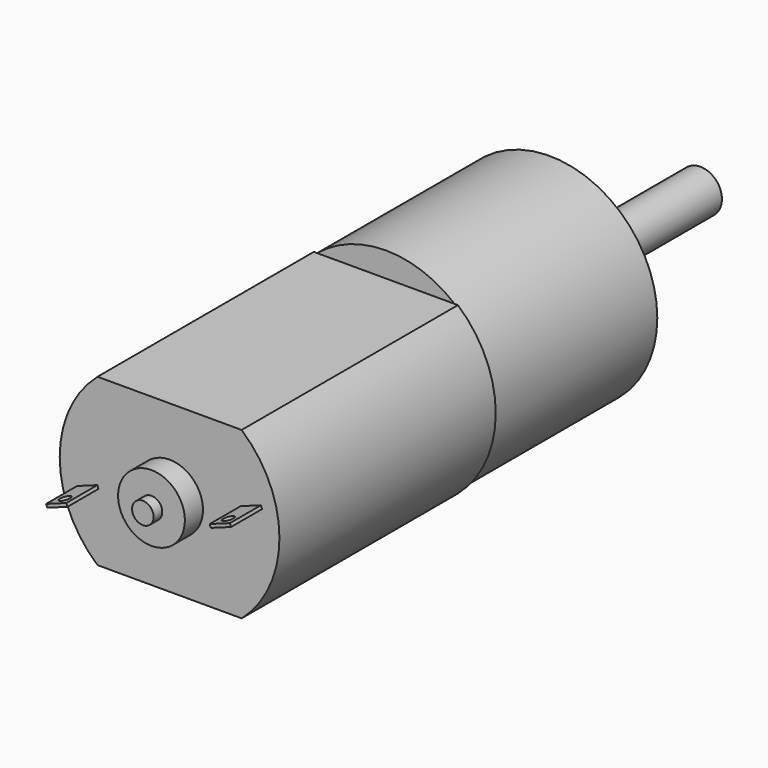
from build123d import *

# Parameters (mm, degrees)
SKETCH_R                 = 10
PAD_DEPTH                = 19
SKETCH001_R              = 3.5
PAD001_DEPTH             = 3
SKETCH002_R              = 2
PAD002_DEPTH             = 14.5
SKETCH003_W              = 10
SKETCH003_H              = 5
POCKET_DEPTH             = 14.5
PAD003_DEPTH             = 25.1
SKETCH005_R              = 3.1
PAD004_DEPTH             = 2.1
SKETCH006_R              = 1
PAD005_DEPTH             = 6
PAD006_DEPTH             = 3.6
SKETCH009_R              = 0.5
POCKET001_DEPTH          = 5
POLARPATTERN_COUNT       = 2
POLARPATTERN001_COUNT    = 2
POLARPATTERN001_FACE35_R = 1
POCKET002_DEPTH          = 5
SKETCH010_R              = 1.25
POCKET003_DEPTH          = 5


with BuildPart() as part:
    # Sketch → Pad (new body)
    with BuildSketch(Plane.XZ):
        Circle(SKETCH_R)
    extrude(amount=PAD_DEPTH)

    # Sketch001 (on Face2 of Pad) → Pad001 (join)
    with BuildSketch(Plane(origin=(0, 0, 0), x_dir=(1, 0, 0), z_dir=(0, 1, 0))):
        Circle(SKETCH001_R)
    extrude(amount=PAD001_DEPTH)

    # Sketch002 (on Face5 of Pad001) → Pad002 (join)
    with BuildSketch(Plane(origin=(0, 3, 0), x_dir=(1, 0, 0), z_dir=(0, 1, 0))):
        Circle(SKETCH002_R)
    extrude(amount=PAD002_DEPTH)

    # Sketch003 (on Face7 of Pad002) → Pocket (cut)
    with BuildSketch(Plane(origin=(0, 17.5, 0), x_dir=(1, 0, 0), z_dir=(0, 1, 0))):
        with Locations((0, 4)):
            Rectangle(SKETCH003_W, SKETCH003_H)
    extrude(amount=-POCKET_DEPTH, mode=Mode.SUBTRACT)

    # Sketch004 (on Face3 of Pocket) → Pad003 (join)
    with BuildSketch(Plane.XZ.offset(19)):
        with BuildLine():
            Line((-6.689544, 7.7), (6.689544, 7.7))
            ThreePointArc((6.689544, -7.7), (10.2, 0), (6.689544, 7.7))
            Line((6.689544, -7.7), (-6.689544, -7.7))
            ThreePointArc((-6.689544, 7.7), (-10.2, 0), (-6.689544, -7.7))
        make_face()
    extrude(amount=PAD003_DEPTH)

    # Sketch005 (on Face14 of Pad003) → Pad004 (join)
    with BuildSketch(Plane.XZ.offset(44.1)):
        Circle(SKETCH005_R)
    extrude(amount=PAD004_DEPTH)

    # Sketch006 (on Face21 of Pad004) → Pad005 (join)
    with BuildSketch(Plane.XZ.offset(46.2)):
        Circle(SKETCH006_R)
    extrude(amount=PAD005_DEPTH)

    # Sketch008 (on Face14 of Pad005) → Pad006 (join)
    with BuildSketch(Plane.XZ.offset(44.1)):
        Polygon((6.603759, 1.445812), (8.483144, 2.129852), (8.58575, 1.847944), (6.706365, 1.163904), align=None)
    pad006 = extrude(amount=PAD006_DEPTH)

    # Sketch009 (on Face21 of Pad006) → Pocket001 (cut)
    with BuildSketch(Plane(origin=(0.410424, 0, -1.127631), x_dir=(0.939693, 0, 0.34202), z_dir=(0.34202, 0, -0.939693))):
        with Locations((7.689708, 46.695641)):
            Circle(SKETCH009_R)
    pocket001 = extrude(amount=-POCKET001_DEPTH, mode=Mode.SUBTRACT)

    # PolarPattern: Pad006 ×2 about axis
    polarpattern_axis = Axis((0, -44.1, 0), (0, -1, 0))
    for i in range(1, POLARPATTERN_COUNT):
        add(pad006.rotate(polarpattern_axis, i * 360 / POLARPATTERN_COUNT))

    # PolarPattern001: Pocket001 ×2 about axis
    polarpattern001_axis = Axis((0, 0, 0), (0, 1, 0))
    for i in range(1, POLARPATTERN001_COUNT):
        add(pocket001.rotate(polarpattern001_axis, i * 360 / POLARPATTERN001_COUNT), mode=Mode.SUBTRACT)

    # PolarPattern001 Face35 → Pocket002 (cut)
    with BuildSketch(Plane(origin=(0, -52.2, 0), x_dir=(-1, 0, 0), z_dir=(0, -1, 0))):
        Circle(POLARPATTERN001_FACE35_R)
    extrude(amount=-POCKET002_DEPTH, mode=Mode.SUBTRACT)

    # Sketch010 (on Face2 of Pocket002) → Pocket003 (cut)
    with BuildSketch(Plane(origin=(0, 0, 0), x_dir=(1, 0, 0), z_dir=(0, 1, 0))):
        with Locations((-7.5, 0)):
            Circle(SKETCH010_R)
        with Locations((7.5, 0)):
            Circle(SKETCH010_R)
    extrude(amount=-POCKET003_DEPTH, mode=Mode.SUBTRACT)


solid = part.part
